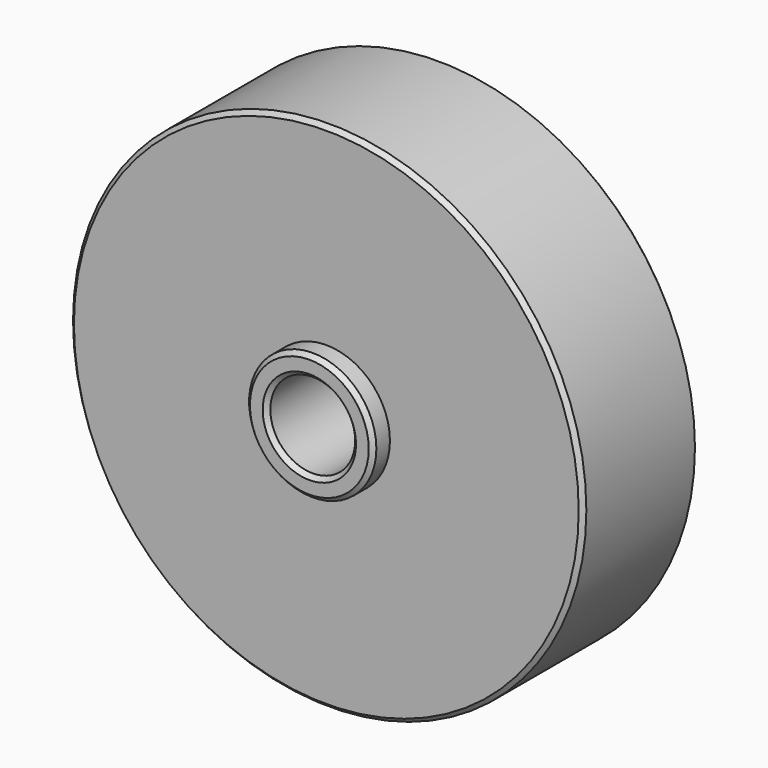
from build123d import *

# Parameters (mm, degrees)
F0_R     = 30.25
F0_R_2   = 5
F1_DEPTH = 17
F2_R     = 7.5
F2_R_2   = 5
F3_DEPTH = 2.5
F4_R     = 21.5
F4_R_2   = 18.5
F5_DEPTH = 3
F6_SIZE  = 0.5


with BuildPart() as f1:
    # F0 (on Front) → F1 (new body)
    with BuildSketch(Plane.XZ):
        Circle(F0_R)
        Circle(F0_R_2, mode=Mode.SUBTRACT)
    extrude(amount=F1_DEPTH)

    # F2 (on face) → F3 (join)
    with BuildSketch(Plane.XZ.offset(17)):
        Circle(F2_R)
        Circle(F2_R_2, mode=Mode.SUBTRACT)
    extrude(amount=F3_DEPTH)

    # F4 (on face) → F5 (cut)
    with BuildSketch(Plane(origin=(0, 0, 0), x_dir=(-1, 0, 0), z_dir=(0, 1, 0))):
        Circle(F4_R)
        Circle(F4_R_2, mode=Mode.SUBTRACT)
    extrude(amount=-F5_DEPTH, mode=Mode.SUBTRACT)

    # F6
    f6_edges = [f1.edges().sort_by_distance(p)[0] for p in [
        (-30.25, -17, 0),
        (-7.5, -19.5, 0),
        (-5, -19.5, 0),
        (-30.25, 0, 0),
        (-5, 0, 0),
    ]]
    chamfer(f6_edges, length=F6_SIZE)


solid = f1.part
